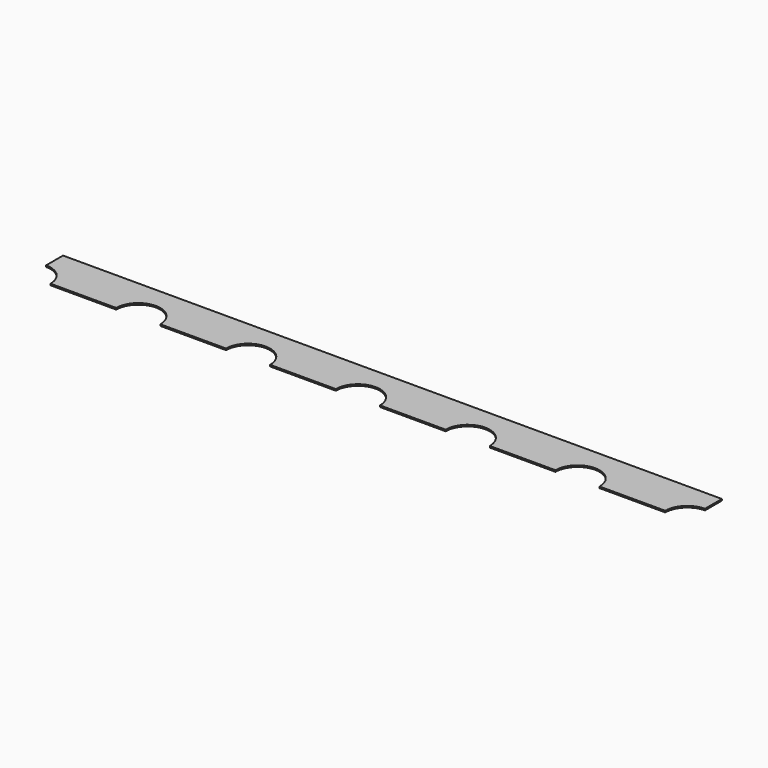
from build123d import *

# Parameters (mm, degrees)
SKETCH004_W             = 15.24
SKETCH004_H             = 1
PAD002_DEPTH            = 0.035
SKETCH005_R             = 0.51
POCKET002_DEPTH         = 0.036
LINEARPATTERN005_COUNT  = 7
LINEARPATTERN005_PITCH  = 2.54
BODY004_PLACEMENT_ANGLE = 180


with BuildPart() as part:
    # Sketch004 → Pad002 (new body)
    with BuildSketch(Plane.XY):
        with Locations((0, 2.04)):
            Rectangle(SKETCH004_W, SKETCH004_H)
    extrude(amount=-PAD002_DEPTH)

    # Sketch005 → Pocket002 (cut, through all)
    with BuildSketch(Plane.XY):
        with Locations((-7.62, 2.54)):
            Circle(SKETCH005_R)
    pocket002 = extrude(amount=-POCKET002_DEPTH, mode=Mode.SUBTRACT)

    # LinearPattern005: Pocket002 ×7
    with Locations(*[(i * LINEARPATTERN005_PITCH, 0, 0) for i in range(1, LINEARPATTERN005_COUNT)]):
        add(pocket002, mode=Mode.SUBTRACT)


with BuildPart() as part_1:
    # Body004 placement: moved
    add(part.part.rotate(Axis((0, 0, 0), (0, 0, 1)), BODY004_PLACEMENT_ANGLE))


solid = part_1.part
